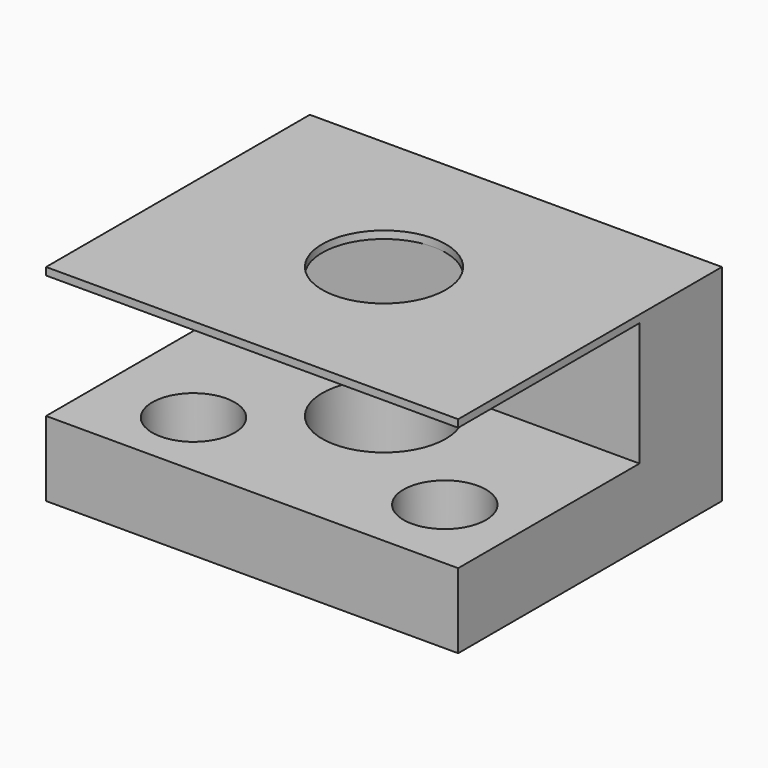
from build123d import *

# Parameters (mm, degrees)
F0_W          = 100
F0_H          = 80
F0_R          = 15
F1_DEPTH      = 50
F2_W          = 100
F2_H          = 30
F3_DEPTH      = 50.001
F3_DEPTH_BACK = 105.8
F4_R          = 10
F5_DEPTH      = 23.4


with BuildPart() as f1:
    # F0 (on Top) → F1 (new body)
    with BuildSketch(Plane.XY):
        Rectangle(F0_W, F0_H)
        Circle(F0_R, mode=Mode.SUBTRACT)
    extrude(amount=F1_DEPTH)

    # F2 (on Right) → F3 (cut, two sides)
    with BuildSketch(Plane.YZ) as f3_sk:
        with Locations((-35, 33.171409)):
            Rectangle(F2_W, F2_H)
    extrude(amount=F3_DEPTH, mode=Mode.SUBTRACT)
    extrude(f3_sk.sketch, amount=-F3_DEPTH_BACK, mode=Mode.SUBTRACT)

    # F4 (on Top) → F5 (cut)
    with BuildSketch(Plane.XY):
        with Locations((-27.791176, -23.038651)):
            Circle(F4_R)
        with Locations((31.747535, -21.252491)):
            Circle(F4_R)
    extrude(amount=F5_DEPTH, mode=Mode.SUBTRACT)


solid = f1.part
